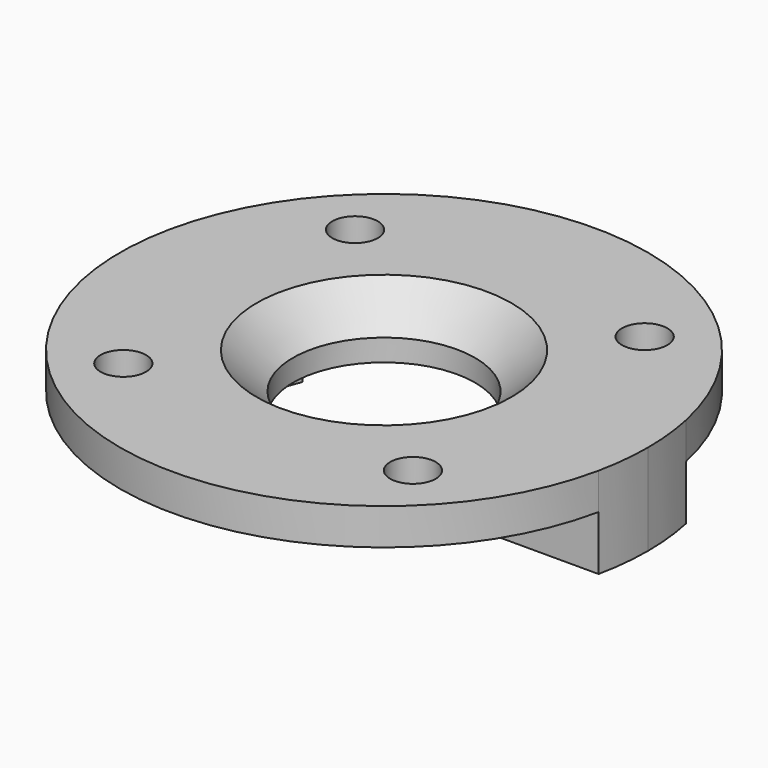
from build123d import *

# Parameters (mm, degrees)
F0_R     = 5
F2_DEPTH = 3.2
F0_R_2   = 1.25
F3_DEPTH = 2
F4_DEPTH = 5
F5_SIZE  = 2
F6_ANGLE = 180


with BuildPart() as f2:
    # F0 (on Top) → F2 (new body)
    with BuildSketch(Plane.XY):
        with BuildLine():
            ThreePointArc((7.5, 0), (7.341797347, 1.5323223277), (6.8738635424, 3))
            ThreePointArc((6.8738635424, 3), (0, 7.5), (-6.8738635424, 3))
            ThreePointArc((-6.8738635424, 3), (-7.5, 0), (-6.8738635424, -3))
            ThreePointArc((-6.8738635424, -3), (0, -7.5), (6.8738635424, -3))
            ThreePointArc((6.8738635424, -3), (7.341797347, -1.5323223277), (7.5, 0))
        make_face()
        Circle(F0_R, mode=Mode.SUBTRACT)
    extrude(amount=F2_DEPTH)

    # F0 (on Top) → F3 (join)
    with BuildSketch(Plane.XY):
        with BuildLine():
            Line((6.8738635424, 3), (14.1862609591, 3))
            ThreePointArc((14.1862609591, 3), (0, 14.5), (-14.1862609591, 3))
            Line((-14.1862609591, 3), (-6.8738635424, 3))
            ThreePointArc((-6.8738635424, 3), (0, 7.5), (6.8738635424, 3))
        make_face()
        with Locations((-7.9549512883, 7.9549512883)):
            Circle(F0_R_2, mode=Mode.SUBTRACT)
        with Locations((7.9549512883, 7.9549512883)):
            Circle(F0_R_2, mode=Mode.SUBTRACT)
        with BuildLine():
            ThreePointArc((-14.1862609591, -3), (0, -14.5), (14.1862609591, -3))
            Line((14.1862609591, -3), (6.8738635424, -3))
            ThreePointArc((6.8738635424, -3), (0, -7.5), (-6.8738635424, -3))
            Line((-6.8738635424, -3), (-14.1862609591, -3))
        make_face()
        with Locations((-7.9549512883, -7.9549512883)):
            Circle(F0_R_2, mode=Mode.SUBTRACT)
        with Locations((7.9549512883, -7.9549512883)):
            Circle(F0_R_2, mode=Mode.SUBTRACT)
    extrude(amount=F3_DEPTH)

    # F0 (on Top) → F4 (join)
    with BuildSketch(Plane.XY):
        with BuildLine():
            Line((-6.8738635424, 3), (-14.1862609591, 3))
            ThreePointArc((-14.1862609591, 3), (-14.5, 0), (-14.1862609591, -3))
            Line((-14.1862609591, -3), (-6.8738635424, -3))
            ThreePointArc((-6.8738635424, -3), (-7.5, 0), (-6.8738635424, 3))
        make_face()
        with BuildLine():
            ThreePointArc((14.1862609591, -3), (14.4213519461, -1.508180376), (14.5, 0))
            ThreePointArc((14.5, 0), (14.4213519461, 1.508180376), (14.1862609591, 3))
            Line((14.1862609591, 3), (6.8738635424, 3))
            ThreePointArc((6.8738635424, 3), (7.341797347, 1.5323223277), (7.5, 0))
            ThreePointArc((7.5, 0), (7.341797347, -1.5323223277), (6.8738635424, -3))
            Line((6.8738635424, -3), (14.1862609591, -3))
        make_face()
    extrude(amount=F4_DEPTH)

    # F5
    f5_edges = [f2.edges().sort_by_distance(p)[0] for p in [
        (-5, 0, 0),
    ]]
    chamfer(f5_edges, length=F5_SIZE)


with BuildPart() as f2_1:
    # F6: moved
    add(f2.part.rotate(Axis((20.4745046794, 0, 0), (1, 0, 0)), F6_ANGLE))


solid = f2_1.part
